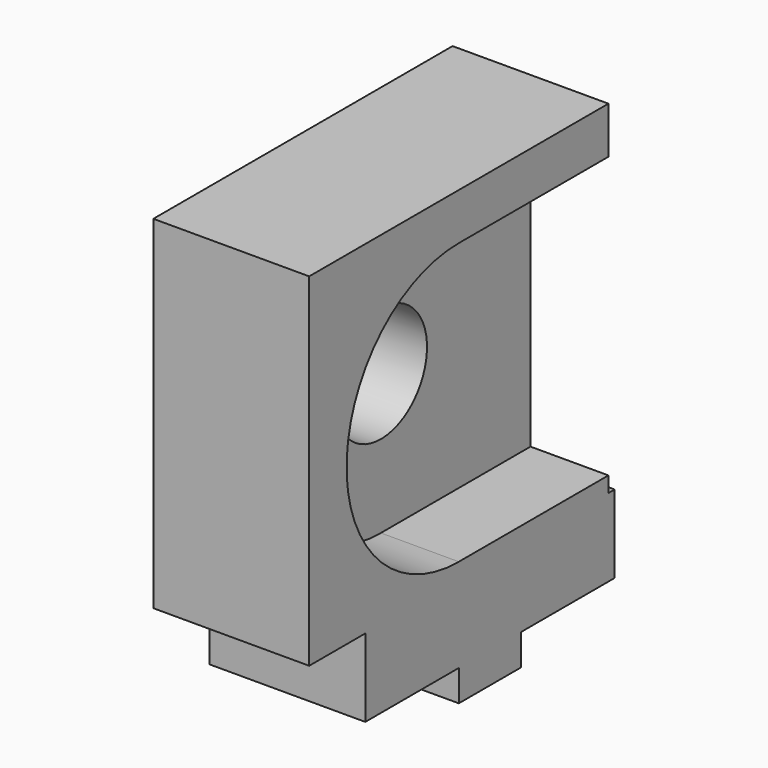
from build123d import *

# Parameters (mm, degrees)
SKETCH052_W             = 10
SKETCH052_H             = 20
PAD024_DEPTH            = 5
SKETCH049_W             = 10
SKETCH049_H             = 10
PAD023_DEPTH            = 6
SKETCH050_W             = 24
SKETCH050_H             = 22
PAD025_DEPTH            = 5
SKETCH048_W             = 16
SKETCH048_H             = 18
POCKET019_DEPTH         = 6
SKETCH051_R             = 3.7
POCKET018_DEPTH         = 10
SKETCH053_W             = 10
SKETCH053_H             = 5
PAD026_DEPTH            = 2
SKETCH064_R             = 9
POCKET024_DEPTH         = 5
BODY010_PLACEMENT_ANGLE = 180


with BuildPart() as part:
    # Sketch052 → Pad024 (new body)
    with BuildSketch(Plane.XY):
        with Locations((0, -2.5)):
            Rectangle(SKETCH052_W, SKETCH052_H)
    extrude(amount=PAD024_DEPTH)

    # Sketch049 → Pad023 (join)
    with BuildSketch(Plane.XY):
        Rectangle(SKETCH049_W, SKETCH049_H)
    extrude(amount=PAD023_DEPTH)

    # Sketch050 → Pad025 (join, symmetric)
    with BuildSketch(Plane.YZ):
        with Locations((0, 16)):
            Rectangle(SKETCH050_W, SKETCH050_H)
    extrude(amount=PAD025_DEPTH, both=True)

    # Sketch048 → Pocket019 (cut)
    with BuildSketch(Plane.YZ):
        with Locations((-8, 15)):
            Rectangle(SKETCH048_W, SKETCH048_H)
    extrude(amount=-POCKET019_DEPTH, mode=Mode.SUBTRACT)

    # Sketch051 → Pocket018 (cut, symmetric)
    with BuildSketch(Plane.YZ):
        with Locations((0, 15)):
            Circle(SKETCH051_R)
    extrude(amount=POCKET018_DEPTH, both=True, mode=Mode.SUBTRACT)

    # Sketch053 → Pad026 (join)
    with BuildSketch(Plane.XY):
        with Locations((0, -2.5)):
            Rectangle(SKETCH053_W, SKETCH053_H)
    extrude(amount=-PAD026_DEPTH)

    # Sketch064 → Pocket024 (cut)
    with BuildSketch(Plane.YZ):
        with Locations((0, 15)):
            Circle(SKETCH064_R)
    extrude(amount=-POCKET024_DEPTH, mode=Mode.SUBTRACT)


with BuildPart() as part_1:
    # Body010 placement: moved
    add(part.part.moved(Location((-35, 37.5, -1))).rotate(Axis((-35, 37.5, -1), (0, 0, 1)), BODY010_PLACEMENT_ANGLE))


solid = part_1.part
